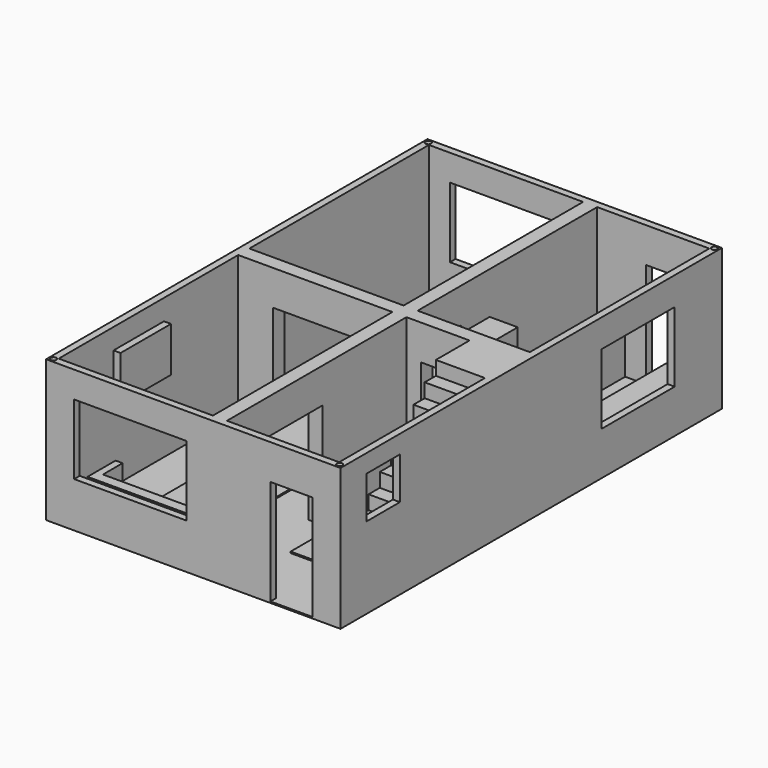
from build123d import *

# Parameters (mm, degrees)
F0_W      = 533.4
F0_H      = 863.6
F1_DEPTH  = 2.54
F2_W      = 533.4
F2_H      = 863.6
F2_W_2    = 508
F2_H_2    = 838.2
F3_DEPTH  = 254
F4_W      = 25.4
F4_H      = 406.4
F4_H_2    = 25.4
F5_DEPTH  = 254
F6_W      = 76.2
F6_H      = 190.5
F7_DEPTH  = 25.4
F8_W      = 76.2
F8_H      = 304.8
F9_DEPTH  = 25.4
F10_W     = 76.2
F10_H     = 279.4
F11_DEPTH = 25.4
F12_W     = 76.2
F12_H     = 254
F13_DEPTH = 25.4
F14_W     = 76.2
F14_H     = 228.6
F15_DEPTH = 25.4
F16_W     = 76.2
F16_H     = 203.2
F17_DEPTH = 25.4
F18_W     = 76.2
F18_H     = 177.8
F19_DEPTH = 25.4
F20_W     = 76.2
F20_H     = 152.4
F21_DEPTH = 25.4
F22_W     = 76.2
F22_H     = 127
F23_DEPTH = 25.4
F24_W     = 76.2
F24_H     = 101.6
F25_DEPTH = 25.4
F26_W     = 76.2
F26_H     = 76.2
F27_DEPTH = 25.4
F28_W     = 76.2
F28_H     = 190.5
F29_DEPTH = 25.4
F30_W     = 76.2
F30_H     = 190.5
F31_DEPTH = 25.4
F32_W     = 152.4
F32_H     = 190.5
F33_DEPTH = 25.4
F34_W     = 152.4
F34_H     = 190.5
F35_DEPTH = 25.4
F37_W     = 76.2
F37_H     = 76.2
F38_DEPTH = 25.4
F39_W     = 203.2
F39_H     = 127
F40_DEPTH = 25.4
F41_W     = 203.2
F41_H     = 127
F42_DEPTH = 25.4
F43_W     = 76.2
F43_H     = 190.5
F44_DEPTH = 25.4
F45_W     = 76.2
F45_H     = 190.5
F46_DEPTH = 25.4
F48_DEPTH = 12.7
F49_W     = 165.1
F49_H     = 127
F50_DEPTH = 25.4
F51_R     = 5.08
F52_DEPTH = 25.4
F53_W     = 190.5
F53_H     = 63.5
F54_DEPTH = 76.2
F55_W     = 165.1
F55_H     = 44.45
F56_DEPTH = 50.8
F57_W     = 127
F57_H     = 203.2
F57_W_2   = 76.2
F57_H_2   = 190.5
F58_DEPTH = 2.54
F60_DEPTH = 63.5
F61_W     = 50.8
F61_H     = 177.8
F62_DEPTH = 76.2
F64_DEPTH = 88.9
F65_W     = 50.8
F65_H     = 64.7032260895
F66_DEPTH = 177.8
F67_W     = 101.6
F67_H     = 203.2
F68_DEPTH = 88.9
F69_W     = 79.5584097505
F69_H     = 71.4426783538
F70_DEPTH = 203.2
F71_W     = 177.1770715714
F71_H     = 77.1189329839
F72_DEPTH = 101.6
F73_W     = 114.3
F73_H     = 81.28
F74_DEPTH = 12.7
F76_DEPTH = 76.2
F77_W     = 38.1
F77_H     = 45.72
F78_DEPTH = 50.8
F79_W     = 38.1
F79_H     = 8.466582
F79_H_2   = 6.773418
F80_DEPTH = 38.1


with BuildPart() as f1:
    # F0 (on Top) → F1 (new body)
    with BuildSketch(Plane.XY):
        Rectangle(F0_W, F0_H)
    extrude(amount=F1_DEPTH)

    # F2 (on face) → F3 (join)
    with BuildSketch(Plane.XY.offset(2.54)):
        Rectangle(F2_W, F2_H)
        Rectangle(F2_W_2, F2_H_2, mode=Mode.SUBTRACT)
    extrude(amount=F3_DEPTH)

    # F4 (on face) → F5 (join)
    with BuildSketch(Plane.XY.offset(2.54)):
        with Locations((38.1, -215.9)):
            Rectangle(F4_W, F4_H)
        with Locations((38.1, 0)):
            Rectangle(F4_W, F4_H_2)
        Polygon((254, 12.7), (50.8, 12.7), (50.8, -12.7), (254, -12.7), (254, 0), align=None)
        Polygon((25.4, -12.7), (25.4, 12.7), (-254, 12.7), (-254, 0), (-254, -12.7), align=None)
        with Locations((38.1, 215.9)):
            Rectangle(F4_W, F4_H)
    extrude(amount=F5_DEPTH)

    # F6 (on face) → F7 (cut)
    with BuildSketch(Plane.XZ.offset(431.8)):
        with Locations((177.8, 97.79)):
            Rectangle(F6_W, F6_H)
    extrude(amount=-F7_DEPTH, mode=Mode.SUBTRACT)

    # F8 (on face) → F9 (join)
    with BuildSketch(Plane.XY.offset(2.54)):
        with Locations((215.9, -165.1)):
            Rectangle(F8_W, F8_H)
    extrude(amount=F9_DEPTH)

    # F10 (on face) → F11 (join)
    with BuildSketch(Plane.XY.offset(27.94)):
        with Locations((215.9, -152.4)):
            Rectangle(F10_W, F10_H)
    extrude(amount=F11_DEPTH)

    # F12 (on face) → F13 (join)
    with BuildSketch(Plane.XY.offset(53.34)):
        with Locations((215.9, -139.7)):
            Rectangle(F12_W, F12_H)
    extrude(amount=F13_DEPTH)

    # F14 (on face) → F15 (join)
    with BuildSketch(Plane.XY.offset(78.74)):
        with Locations((215.9, -127)):
            Rectangle(F14_W, F14_H)
    extrude(amount=F15_DEPTH)

    # F16 (on face) → F17 (join)
    with BuildSketch(Plane.XY.offset(104.14)):
        with Locations((215.9, -114.3)):
            Rectangle(F16_W, F16_H)
    extrude(amount=F17_DEPTH)

    # F18 (on face) → F19 (join)
    with BuildSketch(Plane.XY.offset(129.54)):
        with Locations((215.9, -101.6)):
            Rectangle(F18_W, F18_H)
    extrude(amount=F19_DEPTH)

    # F20 (on face) → F21 (join)
    with BuildSketch(Plane.XY.offset(154.94)):
        with Locations((215.9, -88.9)):
            Rectangle(F20_W, F20_H)
    extrude(amount=F21_DEPTH)

    # F22 (on face) → F23 (join)
    with BuildSketch(Plane.XY.offset(180.34)):
        with Locations((215.9, -76.2)):
            Rectangle(F22_W, F22_H)
    extrude(amount=F23_DEPTH)

    # F24 (on face) → F25 (join)
    with BuildSketch(Plane.XY.offset(205.74)):
        with Locations((215.9, -63.5)):
            Rectangle(F24_W, F24_H)
    extrude(amount=F25_DEPTH)

    # F26 (on face) → F27 (join)
    with BuildSketch(Plane.XY.offset(231.14)):
        with Locations((215.9, -50.8)):
            Rectangle(F26_W, F26_H)
    extrude(amount=F27_DEPTH)

    # F28 (on face) → F29 (cut)
    with BuildSketch(Plane.XZ.offset(12.7)):
        with Locations((115.6540173054, 97.79)):
            Rectangle(F28_W, F28_H)
    extrude(amount=-F29_DEPTH, mode=Mode.SUBTRACT)

    # F30 (on face) → F31 (cut)
    with BuildSketch(Plane.YZ.offset(50.8)):
        with Locations((72.8943343222, 97.79)):
            Rectangle(F30_W, F30_H)
    extrude(amount=-F31_DEPTH, mode=Mode.SUBTRACT)

    # F32 (on face) → F33 (cut)
    with BuildSketch(Plane(origin=(0, 12.7, 0), x_dir=(-1, 0, 0), z_dir=(0, 1, 0))):
        with Locations((114.3, 97.79)):
            Rectangle(F32_W, F32_H)
    extrude(amount=-F33_DEPTH, mode=Mode.SUBTRACT)

    # F34 (on face) → F35 (cut)
    with BuildSketch(Plane(origin=(25.4, 0, 0), x_dir=(0, -1, 0), z_dir=(-1, 0, 0))):
        with Locations((279.4, 97.79)):
            Rectangle(F34_W, F34_H)
    extrude(amount=-F35_DEPTH, mode=Mode.SUBTRACT)

    # F37 (on face) → F38 (cut)
    with BuildSketch(Plane.YZ.offset(266.7)):
        with Locations((-335.3340667725, 185.5564373493)):
            Rectangle(F37_W, F37_H)
    extrude(amount=-F38_DEPTH, mode=Mode.SUBTRACT)

    # F39 (on face) → F40 (cut)
    with BuildSketch(Plane.XZ.offset(431.8)):
        with Locations((-114.3, 145.4548070431)):
            Rectangle(F39_W, F39_H)
    extrude(amount=-F40_DEPTH, mode=Mode.SUBTRACT)

    # F41 (on face) → F42 (cut)
    with BuildSketch(Plane(origin=(0, 431.8, 0), x_dir=(-1, 0, 0), z_dir=(0, 1, 0))):
        with Locations((114.3, 145.4548070431)):
            Rectangle(F41_W, F41_H)
    extrude(amount=-F42_DEPTH, mode=Mode.SUBTRACT)

    # F43 (on face) → F44 (cut)
    with BuildSketch(Plane(origin=(0, 431.8, 0), x_dir=(-1, 0, 0), z_dir=(0, 1, 0))):
        with Locations((-177.8, 97.79)):
            Rectangle(F43_W, F43_H)
    extrude(amount=-F44_DEPTH, mode=Mode.SUBTRACT)

    # F45 (on face) → F46 (cut)
    with BuildSketch(Plane(origin=(0, 12.7, 0), x_dir=(-1, 0, 0), z_dir=(0, 1, 0))):
        with Locations((-206.7097020388, 97.79)):
            Rectangle(F45_W, F45_H)
    extrude(amount=-F46_DEPTH, mode=Mode.SUBTRACT)

    # F47 (on face) → F48 (join)
    with BuildSketch(Plane(origin=(177.8, 0, 0), x_dir=(0, -1, 0), z_dir=(-1, 0, 0))):
        Polygon((88.9, 231.14), (88.9, 256.54), (12.7, 256.54), (12.7, 193.04), (12.7, 2.54), (317.5, 2.54), (317.5, 27.94), (292.1, 27.94), (292.1, 53.34), (266.7, 53.34), (266.7, 78.74), (241.3, 78.74), (241.3, 104.14), (215.9, 104.14), (215.9, 129.54), (190.5, 129.54), (190.5, 154.94), (165.1, 154.94), (165.1, 180.34), (139.7, 180.34), (139.7, 205.74), (114.3, 205.74), (114.3, 231.14), align=None)
    extrude(amount=F48_DEPTH)

    # F49 (on face) → F50 (cut)
    with BuildSketch(Plane(origin=(254, 0, 0), x_dir=(0, -1, 0), z_dir=(-1, 0, 0))):
        with Locations((-242.1909462929, 142.24)):
            Rectangle(F49_W, F49_H)
    extrude(amount=-F50_DEPTH, mode=Mode.SUBTRACT)

    # F51 (on face) → F52 (cut)
    with BuildSketch(Plane.XY.offset(256.54)):
        with Locations((259.08, -424.18)):
            Circle(F51_R)
        with Locations((-259.08, -424.18)):
            Circle(F51_R)
        with Locations((-259.08, 424.18)):
            Circle(F51_R)
        with Locations((259.08, 424.18)):
            Circle(F51_R)
    extrude(amount=-F52_DEPTH, mode=Mode.SUBTRACT)

    # F53 (on face) → F54 (join)
    with BuildSketch(Plane.XY.offset(2.54)):
        with Locations((-114.1317740679, -377.8158957958)):
            Rectangle(F53_W, F53_H)
    extrude(amount=F54_DEPTH)

    # F55 (on face) → F56 (cut)
    with BuildSketch(Plane.XY.offset(78.74)):
        with Locations((-114.1317740679, -368.2908957958)):
            Rectangle(F55_W, F55_H)
    extrude(amount=-F56_DEPTH, mode=Mode.SUBTRACT)

    # F57 (on face) → F58 (join)
    with BuildSketch(Plane.XY.offset(2.54)):
        with Locations((-114.1317740679, -203.2)):
            Rectangle(F57_W, F57_H)
        with Locations((107.7413304009, -203.2)):
            Rectangle(F57_W_2, F57_H_2)
    extrude(amount=F58_DEPTH)

    # F59 (on face) → F60 (join)
    with BuildSketch(Plane.XY.offset(2.54)):
        Polygon((215.9, 419.1), (197.4212676287, 419.1), (197.4212676287, 114.3), (254, 114.3), (254, 419.1), align=None)
    extrude(amount=F60_DEPTH)

    # F61 (on face) → F62 (join)
    with BuildSketch(Plane.XY.offset(2.54)):
        with Locations((76.2, 330.2)):
            Rectangle(F61_W, F61_H)
    extrude(amount=F62_DEPTH)

    # F63 (on face) → F64 (join)
    with BuildSketch(Plane.XY.offset(2.54)):
        Polygon((121.7336058617, 241.3), (101.6, 241.3), (50.8, 241.3), (50.8, 175.8374124765), (101.6, 175.8374124765), (121.7336058617, 175.8374124765), align=None)
    extrude(amount=F64_DEPTH)

    # F65 (on face) → F66 (join)
    with BuildSketch(Plane.XY.offset(2.54)):
        with Locations((76.2, 143.4857994318)):
            Rectangle(F65_W, F65_H)
    extrude(amount=F66_DEPTH)

    # F67 (on face) → F68 (join)
    with BuildSketch(Plane.XY.offset(2.54)):
        with Locations((-114.3, 215.9)):
            Rectangle(F67_W, F67_H)
    extrude(amount=F68_DEPTH)

    # F69 (on face) → F70 (cut)
    with BuildSketch(Plane.XZ.offset(-114.3)):
        with Locations((-113.5888062418, 38.2613391769)):
            Rectangle(F69_W, F69_H)
    extrude(amount=-F70_DEPTH, mode=Mode.SUBTRACT)

    # F71 (on face) → F72 (cut)
    with BuildSketch(Plane.YZ.offset(-63.5)):
        with Locations((216.2962853909, 41.0994664919)):
            Rectangle(F71_W, F71_H)
    extrude(amount=-F72_DEPTH, mode=Mode.SUBTRACT)

    # F73 (on face) → F74 (join)
    with BuildSketch(Plane.YZ.offset(-254)):
        with Locations((-237.8303322554, 178.4867082977)):
            Rectangle(F73_W, F73_H)
    extrude(amount=F74_DEPTH)

    # F75 (on face) → F76 (join)
    with BuildSketch(Plane.XY.offset(2.54)):
        Polygon((-46.28226161, -88.5335505009), (14.6819874644, -88.5335505009), (14.67773839, -27.5735505009), (-46.28226161, -27.5735505009), align=None)
    extrude(amount=F76_DEPTH)

    # F77 (on face) → F78 (cut)
    with BuildSketch(Plane.XY.offset(78.74)):
        with Locations((-27.23226161, -58.9001325009)):
            Rectangle(F77_W, F77_H)
    extrude(amount=-F78_DEPTH, mode=Mode.SUBTRACT)

    # F79 (on face) → F80 (cut)
    with BuildSketch(Plane.XY.offset(78.74)):
        with Locations((-27.23226161, -31.8068415009)):
            Rectangle(F79_W, F79_H)
        with Locations((-27.23226161, -85.1468415009)):
            Rectangle(F79_W, F79_H_2)
    extrude(amount=-F80_DEPTH, mode=Mode.SUBTRACT)


solid = f1.part
